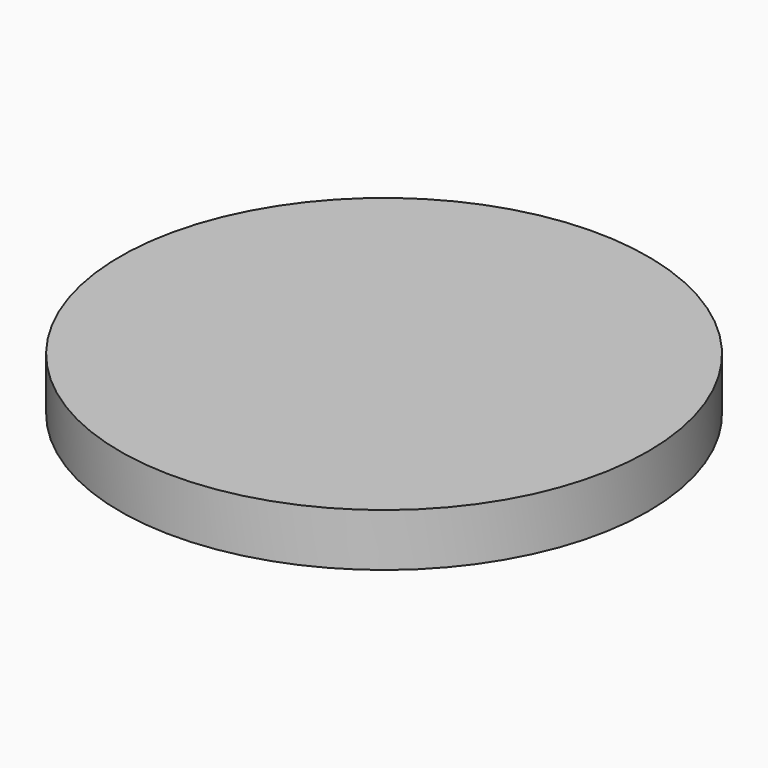
from build123d import *

# Parameters (mm, degrees)
SKETCH_R  = 10
PAD_DEPTH = 2


with BuildPart() as part:
    # Sketch → Pad (new body)
    with BuildSketch(Plane.XY):
        with Locations((-20.606058, 17.272728)):
            Circle(SKETCH_R)
    extrude(amount=PAD_DEPTH)


solid = part.part
